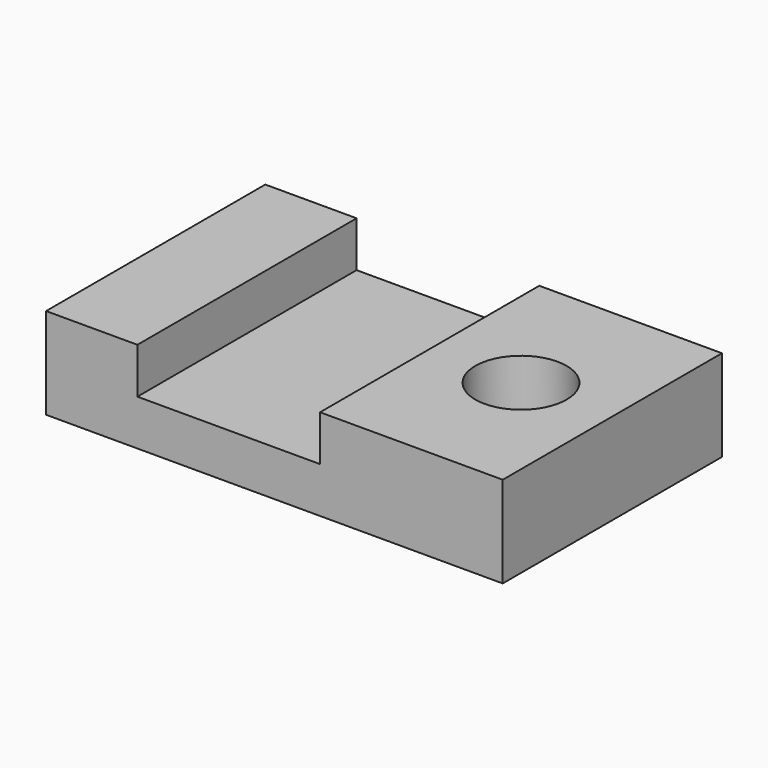
from build123d import *

# Parameters (mm, degrees)
F1_DEPTH = 76.2
F2_R     = 12.7
F3_DEPTH = 66.802
F4_DEPTH = 25.4


with BuildPart() as f1:
    # F0 (on Front) → F1 (new body)
    with BuildSketch(Plane.XZ):
        Polygon((-35.3805, 20.59214), (-60.7805, 20.59214), (-60.7805, -4.80786), (66.2195, -4.80786), (66.2195, 20.59214), (15.4195, 20.59214), (15.4195, 7.89214), (-35.3805, 7.89214), align=None)
    extrude(amount=F1_DEPTH)

    # F2 (on Top) → F3 (cut)
    with BuildSketch(Plane.XY):
        with Locations((40.8195, -38.1)):
            Circle(F2_R)
    extrude(amount=F3_DEPTH, mode=Mode.SUBTRACT)

    # F2 (on Top) → F4 (cut)
    with BuildSketch(Plane.XY):
        with Locations((40.8195, -38.1)):
            Circle(F2_R)
    extrude(amount=-F4_DEPTH, mode=Mode.SUBTRACT)


solid = f1.part
